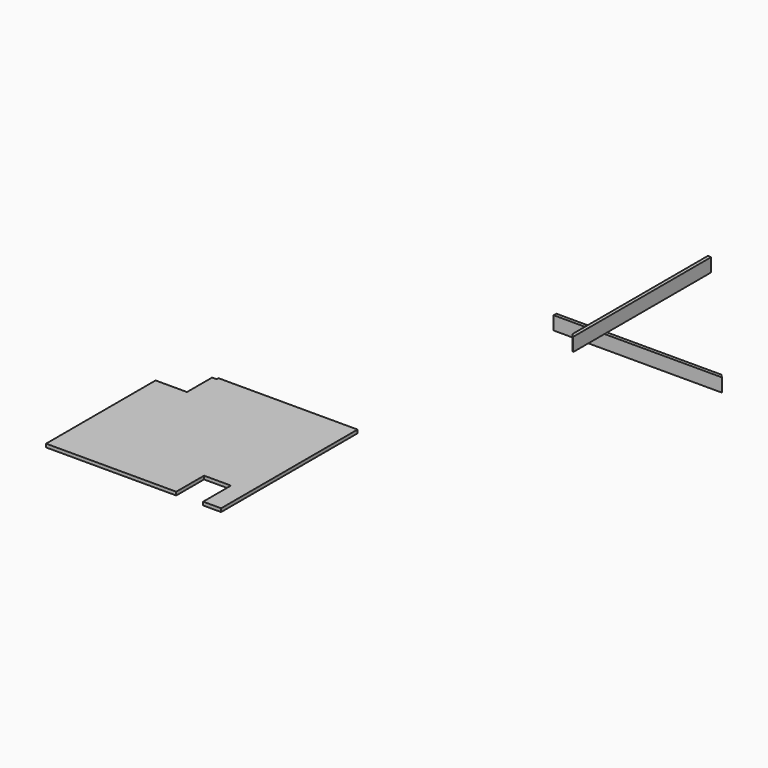
from build123d import *

# Parameters (mm, degrees)
F0_W     = 952.5
F0_H     = 76.2
F1_DEPTH = 19.05
F3_DEPTH = 76.2
F4_W     = 977.9
F4_H     = 76.2
F5_DEPTH = 19.05
F7_DEPTH = 76.2
F9_DEPTH = 19.05


with BuildPart() as f1:
    # F0 (on Front) → F1 (new body)
    with BuildSketch(Plane.XZ):
        with Locations((-5.816747, -30.552551)):
            Rectangle(F0_W, F0_H)
    extrude(amount=F1_DEPTH)

    # F2 (on face) → F3 (cut)
    with BuildSketch(Plane.XY.offset(7.547449)):
        Polygon((451.383253, 0), (470.433253, -19.05), (470.433253, 0), align=None)
    extrude(amount=-F3_DEPTH, mode=Mode.SUBTRACT)


with BuildPart() as f5:
    # F4 (on Right) → F5 (new body)
    with BuildSketch(Plane.YZ):
        with Locations((-19.878419, 223.357007)):
            Rectangle(F4_W, F4_H)
    extrude(amount=F5_DEPTH)

    # F6 (on face) → F7 (cut)
    with BuildSketch(Plane.XY.offset(261.457007)):
        Polygon((0, -508.828419), (19.05, -508.828419), (0, -489.778419), align=None)
    extrude(amount=-F7_DEPTH, mode=Mode.SUBTRACT)


with BuildPart() as f9:
    # F8 (on Top) → F9 (new body)
    with BuildSketch(Plane.XY):
        Polygon((-1452.114036, -1622.623456), (-1452.114036, -2397.323456), (-715.514036, -2397.323456), (-715.514036, -2200.473456), (-563.114036, -2200.473456), (-563.114036, -2397.323456), (-461.514036, -2397.323456), (-461.514036, -1432.123456), (-1248.914036, -1432.123456), (-1248.914036, -1444.823456), (-1274.314036, -1444.823456), (-1274.314036, -1622.623456), align=None)
    extrude(amount=F9_DEPTH)


solid = Compound([f1.part, f5.part, f9.part])
